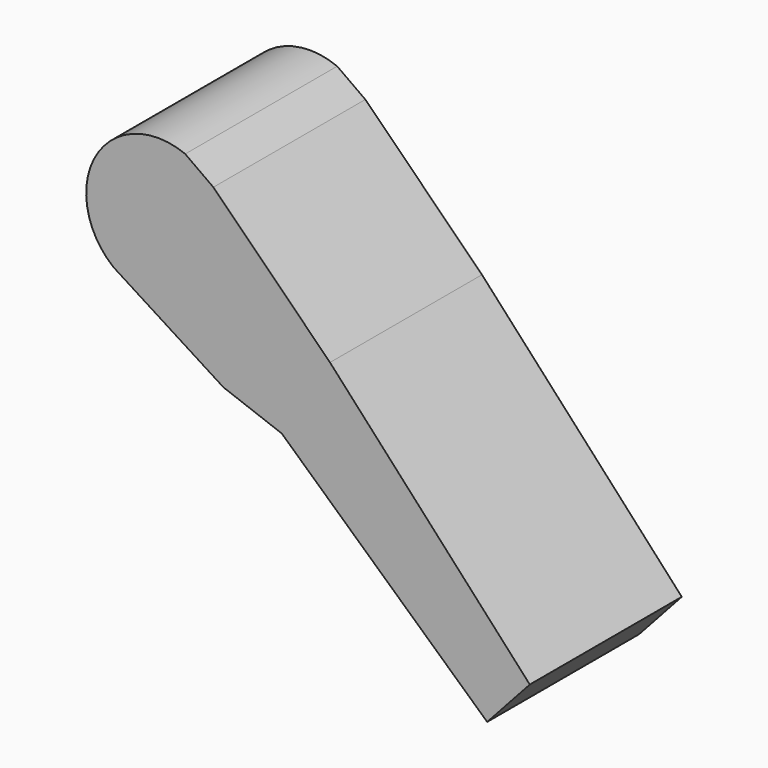
from build123d import *

# Parameters (mm, degrees)
F1_DEPTH = 12.7


with BuildPart() as f1:
    # F0 (on Front) → F1 (new body)
    with BuildSketch(Plane.XZ):
        with BuildLine():
            Line((-6.054226, 71.612571), (-7.935424, 72.958507))
            ThreePointArc((-7.935424, 72.958507), (-13.904184, 70.920281), (-12.719554, 64.725354))
            Line((-12.719554, 64.725354), (-5.376472, 60.052484))
            Line((-5.376472, 60.052484), (-1.482415, 58.606118))
            Line((-1.482415, 58.606118), (1.744093, 63.835286))
            Line((1.744093, 63.835286), (-6.054226, 71.612571))
        make_face()
        Polygon((15.100245, 49.221556), (1.744093, 63.835286), (-1.482415, 58.606118), (12.252431, 46.095155), align=None)
    extrude(amount=-F1_DEPTH)


solid = f1.part
